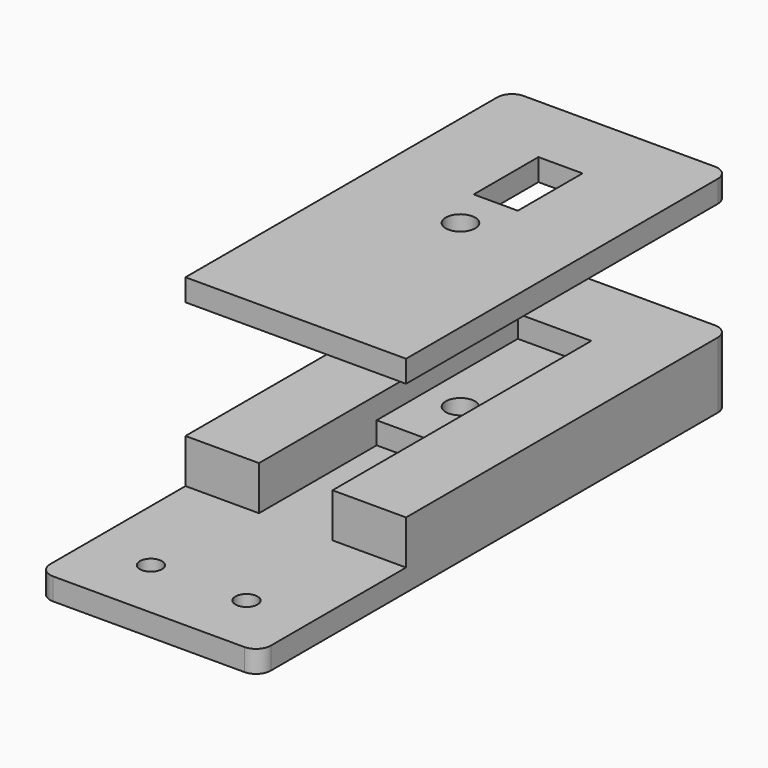
from build123d import *

# Parameters (mm, degrees)
CYLINDER001_R     = 1.5
CYLINDER001_DEPTH = 3
CYLINDER002_R     = 1.5
CYLINDER002_DEPTH = 3
CYLINDER_R        = 2
CYLINDER_DEPTH    = 6
BOX003_W          = 30
BOX003_H          = 25
BOX003_DEPTH      = 6
BOX002_W          = 10
BOX002_H          = 20
BOX002_DEPTH      = 3
BOX001_W          = 10
BOX001_H          = 44
BOX001_DEPTH      = 3
BOX_W             = 30
BOX_H             = 80
BOX_DEPTH         = 9
FILLET_R          = 2
FILLET001_R       = 2
FILLET002_R       = 2
FILLET003_R       = 2
CYLINDER003_R     = 2
CYLINDER003_DEPTH = 3
BOX004_W          = 6
BOX004_H          = 11
BOX004_DEPTH      = 3
BOX005_W          = 30
BOX005_H          = 55
BOX005_DEPTH      = 3
FILLET004_R       = 2
FILLET005_R       = 2


with BuildPart() as cilindro001:
    # Cylinder001 → Cylinder001 (new body)
    with BuildSketch(Plane(origin=(8.5, 8.5, 0), x_dir=(1, 0, 0), z_dir=(0, 0, 1))):
        Circle(CYLINDER001_R)
    extrude(amount=CYLINDER001_DEPTH)


with BuildPart() as fusion:
    # Cylinder002 → Cylinder002 (new body)
    with BuildSketch(Plane(origin=(21.5, 8.5, 0), x_dir=(1, 0, 0), z_dir=(0, 0, 1))):
        Circle(CYLINDER002_R)
    extrude(amount=CYLINDER002_DEPTH)

    # Fusion: union Cilindro001
    add(cilindro001.part)


with BuildPart() as cilindro:
    # Cylinder → Cylinder (new body)
    with BuildSketch(Plane(origin=(15, 53, 0), x_dir=(1, 0, 0), z_dir=(0, 0, 1))):
        Circle(CYLINDER_R)
    extrude(amount=CYLINDER_DEPTH)


with BuildPart() as cubo003:
    # Box003 → Box003 (new body)
    with BuildSketch(Plane.XY.offset(3)):
        with Locations((15, 12.5)):
            Rectangle(BOX003_W, BOX003_H)
    extrude(amount=BOX003_DEPTH)


with BuildPart() as cubo002:
    # Box002 → Box002 (new body)
    with BuildSketch(Plane(origin=(10, 25, 3), x_dir=(1, 0, 0), z_dir=(0, 0, 1))):
        with Locations((5, 10)):
            Rectangle(BOX002_W, BOX002_H)
    extrude(amount=BOX002_DEPTH)


with BuildPart() as cubo001:
    # Box001 → Box001 (new body)
    with BuildSketch(Plane(origin=(10, 25, 6), x_dir=(1, 0, 0), z_dir=(0, 0, 1))):
        with Locations((5, 22)):
            Rectangle(BOX001_W, BOX001_H)
    extrude(amount=BOX001_DEPTH)


with BuildPart() as fillet003:
    # Box → Box (new body)
    with BuildSketch(Plane.XY):
        with Locations((15, 40)):
            Rectangle(BOX_W, BOX_H)
    extrude(amount=BOX_DEPTH)

    # Cut: cut Cubo001
    add(cubo001.part, mode=Mode.SUBTRACT)

    # Cut001: cut Cubo002
    add(cubo002.part, mode=Mode.SUBTRACT)

    # Cut002: cut Cubo003
    add(cubo003.part, mode=Mode.SUBTRACT)

    # Cut003: cut Cilindro
    add(cilindro.part, mode=Mode.SUBTRACT)

    # Cut004: cut Fusion
    add(fusion.part, mode=Mode.SUBTRACT)

    # Fillet
    fillet_edges = [fillet003.edges().sort_by_distance(p)[0] for p in [
        (30, 0, 1.5),
    ]]
    fillet(fillet_edges, radius=FILLET_R)

    # Fillet001
    fillet001_edges = [fillet003.edges().sort_by_distance(p)[0] for p in [
        (0, 0, 1.5),
    ]]
    fillet(fillet001_edges, radius=FILLET001_R)

    # Fillet002
    fillet002_edges = [fillet003.edges().sort_by_distance(p)[0] for p in [
        (30, 80, 4.5),
    ]]
    fillet(fillet002_edges, radius=FILLET002_R)

    # Fillet003
    fillet003_edges = [fillet003.edges().sort_by_distance(p)[0] for p in [
        (0, 80, 4.5),
    ]]
    fillet(fillet003_edges, radius=FILLET003_R)


with BuildPart() as cilindro003:
    # Cylinder003 → Cylinder003 (new body)
    with BuildSketch(Plane(origin=(15, 53, 25), x_dir=(1, 0, 0), z_dir=(0, 0, 1))):
        Circle(CYLINDER003_R)
    extrude(amount=CYLINDER003_DEPTH)


with BuildPart() as cubo004:
    # Box004 → Box004 (new body)
    with BuildSketch(Plane(origin=(12, 59, 25), x_dir=(1, 0, 0), z_dir=(0, 0, 1))):
        with Locations((3, 5.5)):
            Rectangle(BOX004_W, BOX004_H)
    extrude(amount=BOX004_DEPTH)


with BuildPart() as fillet005:
    # Box005 → Box005 (new body)
    with BuildSketch(Plane(origin=(0, 25, 25), x_dir=(1, 0, 0), z_dir=(0, 0, 1))):
        with Locations((15, 27.5)):
            Rectangle(BOX005_W, BOX005_H)
    extrude(amount=BOX005_DEPTH)

    # Cut005: cut Cubo004
    add(cubo004.part, mode=Mode.SUBTRACT)

    # Cut006: cut Cilindro003
    add(cilindro003.part, mode=Mode.SUBTRACT)

    # Fillet004
    fillet004_edges = [fillet005.edges().sort_by_distance(p)[0] for p in [
        (30, 80, 26.5),
    ]]
    fillet(fillet004_edges, radius=FILLET004_R)

    # Fillet005
    fillet005_edges = [fillet005.edges().sort_by_distance(p)[0] for p in [
        (0, 80, 26.5),
    ]]
    fillet(fillet005_edges, radius=FILLET005_R)


solid = Compound([fillet003.part, fillet005.part])
